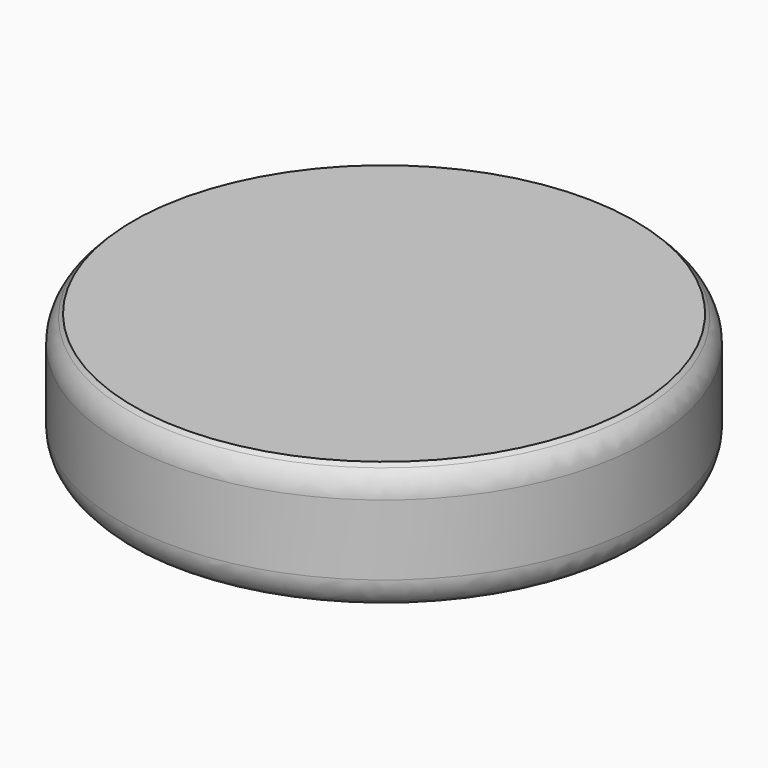
from build123d import *

# Parameters (mm, degrees)
F0_R     = 20
F1_DEPTH = 9.4
F2_SIZE  = 1
F3_R     = 2.5


with BuildPart() as f1:
    # F0 (on Top) → F1 (new body)
    with BuildSketch(Plane.XY):
        Circle(F0_R)
    extrude(amount=F1_DEPTH)

    # F2
    f2_edges = [f1.edges().sort_by_distance(p)[0] for p in [
        (-20, 0, 9.4),
        (-20, 0, 0),
    ]]
    chamfer(f2_edges, length=F2_SIZE)

    # F3
    f3_edges = [f1.edges().sort_by_distance(p)[0] for p in [
        (-20, 0, 8.4),
        (-20, 0, 1),
    ]]
    fillet(f3_edges, radius=F3_R)


solid = f1.part
